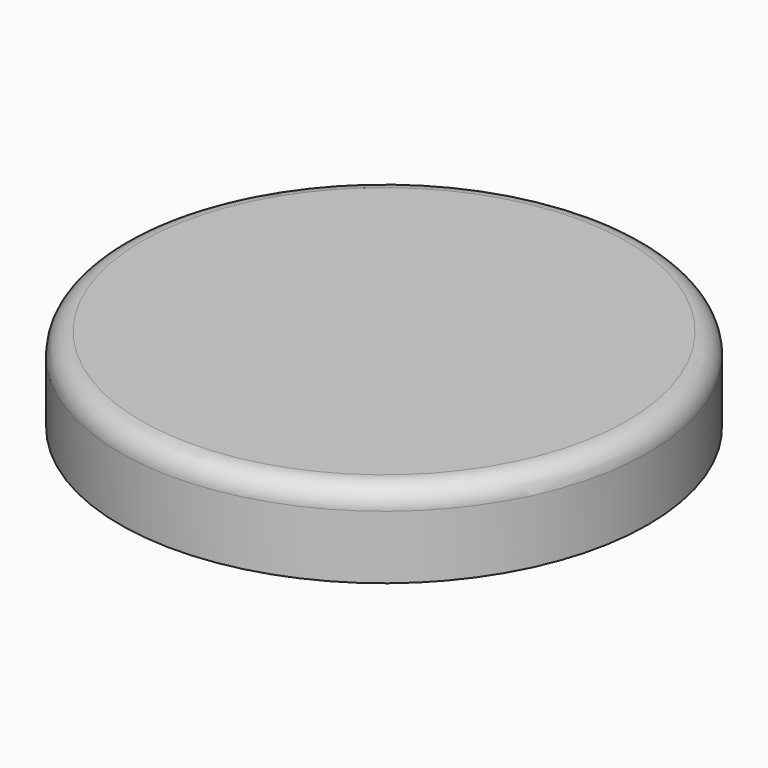
from build123d import *

# Parameters (mm, degrees)
F0_R     = 12.5
F0_R_2   = 11
F1_DEPTH = 4
F2_DEPTH = 2.6
F3_R     = 1


with BuildPart() as f1:
    # F0 (on Top) → F1 (new body)
    with BuildSketch(Plane.XY):
        Circle(F0_R)
        Circle(F0_R_2, mode=Mode.SUBTRACT)
        Circle(F0_R_2)
    extrude(amount=F1_DEPTH)

    # F0 (on Top) → F2 (cut)
    with BuildSketch(Plane.XY):
        Circle(F0_R_2)
    extrude(amount=F2_DEPTH, mode=Mode.SUBTRACT)

    # F3
    f3_edges = [f1.edges().sort_by_distance(p)[0] for p in [
        (-12.5, 0, 4),
    ]]
    fillet(f3_edges, radius=F3_R)


solid = f1.part
